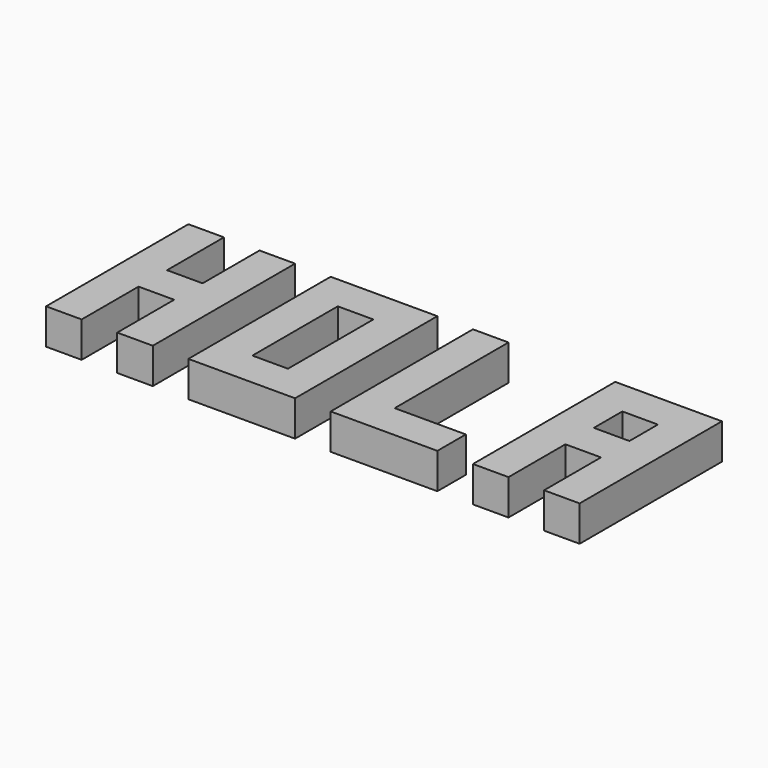
from build123d import *

# Parameters (mm, degrees)
PAD002_DEPTH  = 10
SKETCH001_W   = 30
SKETCH001_H   = 50
SKETCH001_W_2 = 10
SKETCH001_H_2 = 30
PAD001_DEPTH  = 10
PAD003_DEPTH  = 10
SKETCH003_W   = 10
SKETCH003_H   = 10
PAD_DEPTH     = 10


with BuildPart() as h001:
    # Sketch → Pad002 (new body)
    with BuildSketch(Plane.XY):
        Polygon((0, 0), (0, 50), (10, 50), (10, 30), (20, 30), (20, 50), (30, 50), (30, 0), (20, 0), (20, 20), (10, 20), (10, 0), align=None)
    extrude(amount=PAD002_DEPTH)


with BuildPart() as o001:
    # Sketch001 → Pad001 (new body)
    with BuildSketch(Plane.XY):
        with Locations((55, 25)):
            Rectangle(SKETCH001_W, SKETCH001_H)
        with Locations((55, 25)):
            Rectangle(SKETCH001_W_2, SKETCH001_H_2, mode=Mode.SUBTRACT)
    extrude(amount=PAD001_DEPTH)


with BuildPart() as l001:
    # Sketch002 → Pad003 (new body)
    with BuildSketch(Plane.XY):
        Polygon((80, 50), (80, 0), (110, 0), (110, 10), (90, 10), (90, 50), align=None)
    extrude(amount=PAD003_DEPTH)


with BuildPart() as a001:
    # Sketch003 → Pad (new body)
    with BuildSketch(Plane(origin=(120, 0, 0), x_dir=(1, 0, 0), z_dir=(0, 0, 1))):
        Polygon((0, 0), (0, 50), (30, 50), (30, 0), (20, 0), (20, 20), (10, 20), (10, 0), align=None)
        with Locations((15, 35)):
            Rectangle(SKETCH003_W, SKETCH003_H, mode=Mode.SUBTRACT)
    extrude(amount=PAD_DEPTH)


solid = Compound([h001.part, o001.part, l001.part, a001.part])
